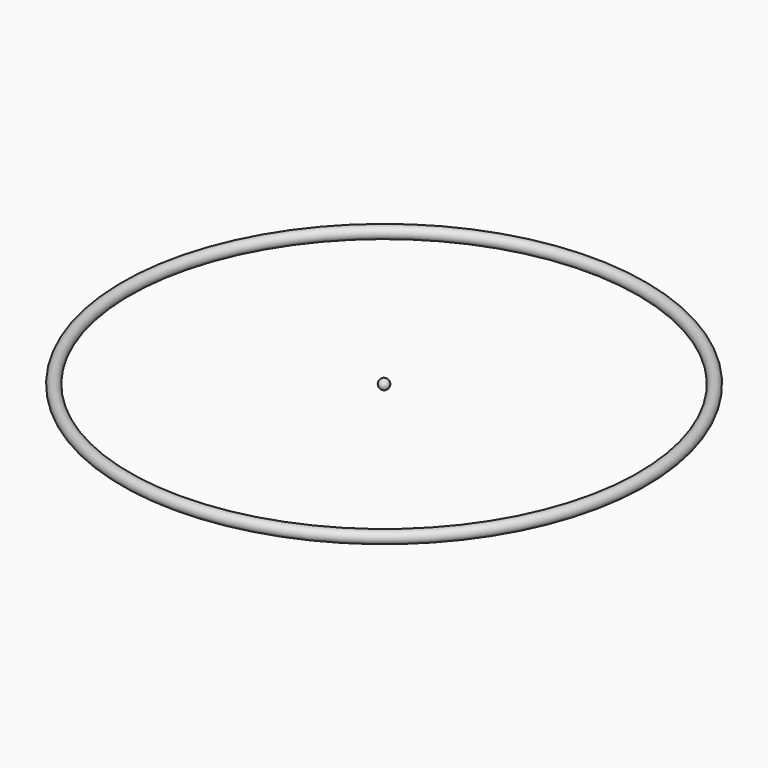
from build123d import *

# Parameters (mm, degrees)
F1_R = 3


with BuildPart() as f2:
    # F1 (on Right) → F2 (revolve)
    with BuildSketch(Plane.YZ):
        with Locations((-130, 0)):
            Circle(F1_R)
    revolve(axis=Axis((0, 0, 0), (0, 0, 1)))


with BuildPart() as f4:
    # F3 (on Top) → F4 (revolve)
    with BuildSketch(Plane.XY):
        with BuildLine():
            Line((0, 2.5), (0, -2.5))
            ThreePointArc((0, -2.5), (2.5104396971, 0), (0, 2.5))
        make_face()
    revolve(axis=Axis((0, 0.2864962444, 0), (0, 1, 0)))


solid = Compound([f2.part, f4.part])
